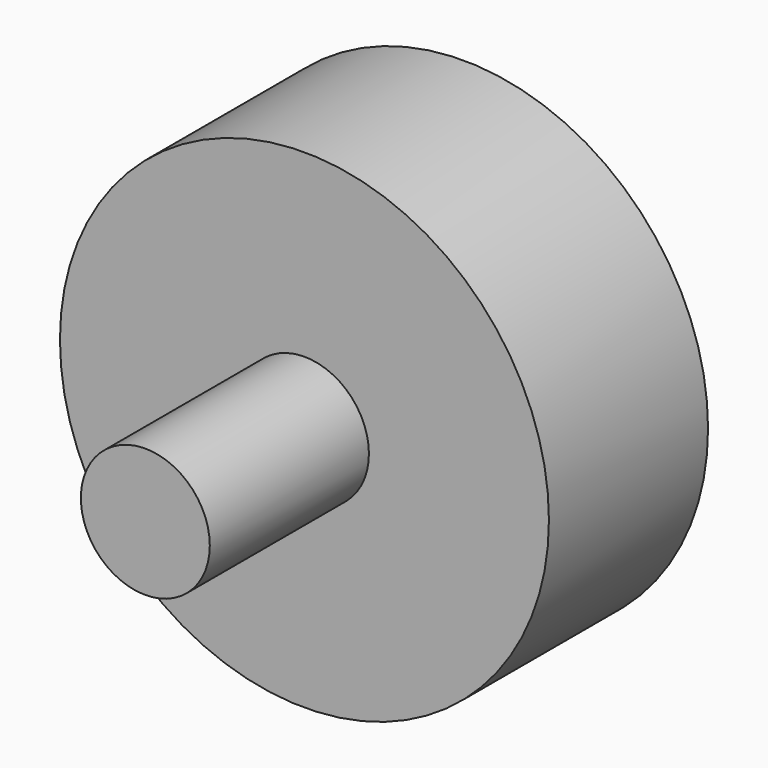
from build123d import *

# Parameters (mm, degrees)
F0_R      = 31.223387
F1_DEPTH  = 25.4
F2_R      = 8.233422
F3_DEPTH  = 25.4
F3_FACE_R = 8.233422
F4_DEPTH  = 25.4


with BuildPart() as f1:
    # F0 (on Front) → F1 (new body)
    with BuildSketch(Plane.XZ):
        Circle(F0_R)
    extrude(amount=F1_DEPTH)

    # F2 (on face) → F3 (join)
    with BuildSketch(Plane.XZ.offset(25.4)):
        Circle(F2_R)
    extrude(amount=F3_DEPTH)

    # F3_face (on face) → F4 (join)
    with BuildSketch(Plane.XZ.offset(50.8)):
        Circle(F3_FACE_R)
    extrude(amount=-F4_DEPTH)


solid = f1.part
